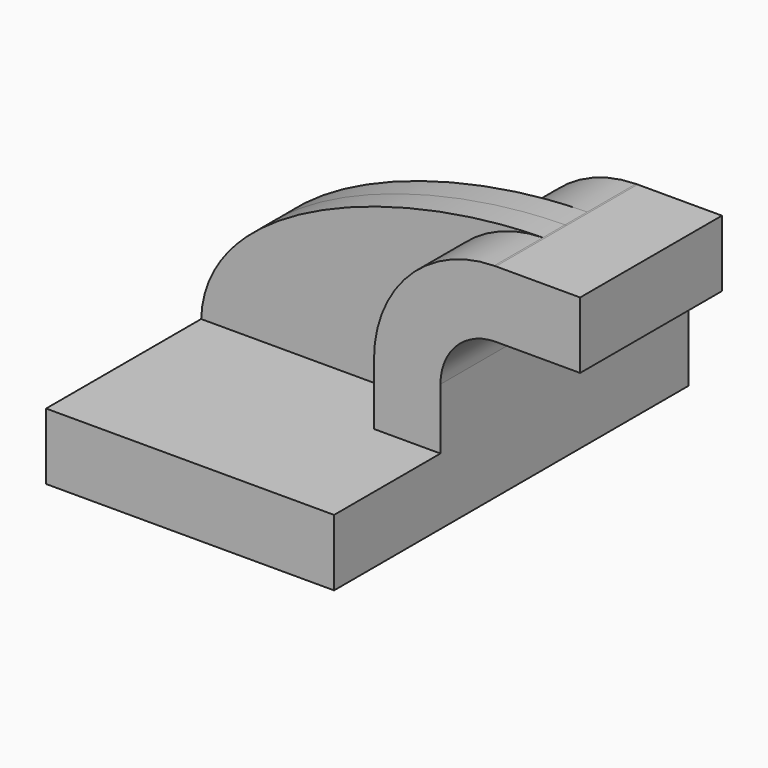
from build123d import *

# Parameters (mm, degrees)
F1_DEPTH = 63.5
F2_DEPTH = 7.9375
F0_W     = 20.994958
F0_H     = 19.05
F3_DEPTH = 25.4


with BuildPart() as f1:
    # F0 (on Front) → F1 (new body, symmetric)
    with BuildSketch(Plane.XZ):
        Polygon((22.225, 9.525), (-41.275, 9.525), (-41.275, -9.525), (41.275, -9.525), (41.275, 9.525), align=None)
    extrude(amount=F1_DEPTH, both=True)

    # F0 (on Front) → F2 (join, symmetric)
    with BuildSketch(Plane.XZ):
        with BuildLine():
            add(Edge.make_bspline(
                [(-41.275, 9.525), (-40.245121, 41.951919), (14.464107, 61.571726), (56.686629, 61.922126)],
                knots=[0, 0, 0, 0, 111.097679, 111.097679, 111.097679, 111.097679], degree=3))
            Line((-41.275, 9.525), (22.225, 9.525))
            Line((22.225, 9.525), (22.225, 27.0002))
            ThreePointArc((22.225, 27.0002), (32.291009, 51.531531), (56.686629, 61.922126))
        make_face()
    extrude(amount=F2_DEPTH, both=True)

    # F0 (on Front) → F3 (join, symmetric)
    with BuildSketch(Plane.XZ):
        with Locations((70.822479, 52.4002)):
            Rectangle(F0_W, F0_H)
        with BuildLine():
            Line((22.225, 27.0002), (22.225, 9.525))
            Line((22.225, 9.525), (41.275, 9.525))
            Line((41.275, 9.525), (41.275, 27.0002))
            ThreePointArc((41.275, 27.0002), (45.92468, 38.22552), (57.15, 42.8752))
            Line((57.15, 42.8752), (60.325, 42.8752))
            Line((60.325, 42.8752), (60.325, 61.9252))
            Line((60.325, 61.9252), (57.15, 61.9252))
            add(Edge.make_bspline(
                [(56.686629, 61.922126), (56.841254, 61.923409), (56.995713, 61.924434), (57.15, 61.9252)],
                knots=[111.097679, 111.097679, 111.097679, 111.097679, 111.504536, 111.504536, 111.504536, 111.504536], degree=3))
            ThreePointArc((56.686629, 61.922126), (32.291009, 51.531531), (22.225, 27.0002))
        make_face()
    extrude(amount=F3_DEPTH, both=True)


solid = f1.part
